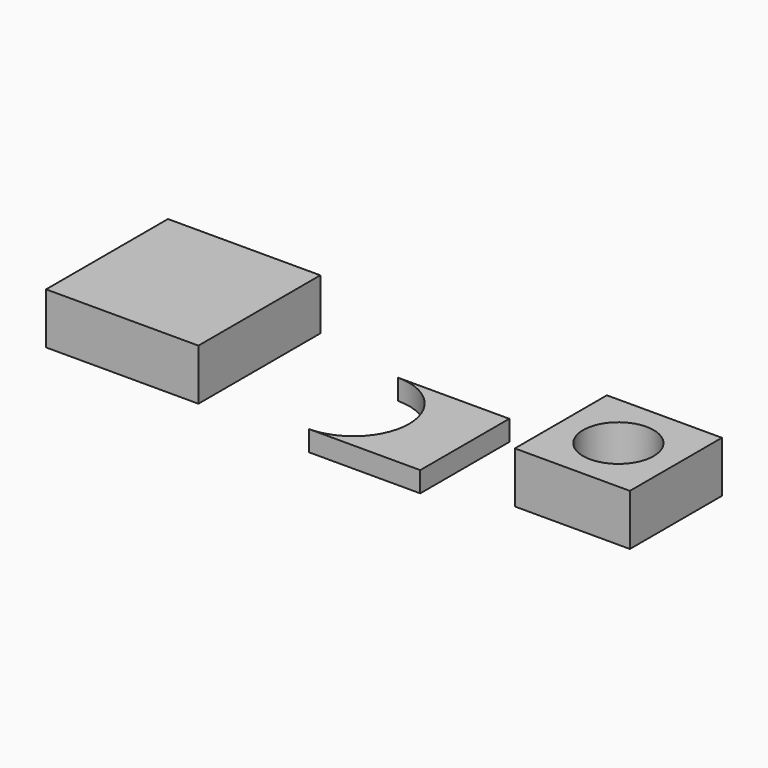
from build123d import *

# Parameters (mm, degrees)
F0_W     = 74.430912
F0_H     = 74.430912
F1_DEPTH = 25
F3_DEPTH = 10
F4_W     = 56.198493
F4_H     = 56.198492
F4_R     = 17.228945
F5_DEPTH = 25


with BuildPart() as f1:
    # F0 (on Top) → F1 (new body)
    with BuildSketch(Plane.XY):
        Rectangle(F0_W, F0_H)
    extrude(amount=F1_DEPTH)


with BuildPart() as f3:
    # F2 (on Top) → F3 (new body)
    with BuildSketch(Plane.XY):
        with BuildLine():
            Line((137.563335, 27.188392), (83.18655, 27.188392))
            ThreePointArc((83.18655, 27.188392), (110.374942, 0), (83.18655, -27.188392))
            Line((83.18655, -27.188392), (137.563335, -27.188392))
            Line((137.563335, -27.188392), (137.563335, 27.188392))
        make_face()
    extrude(amount=-F3_DEPTH)


with BuildPart() as f5:
    # F4 (on Top) → F5 (new body)
    with BuildSketch(Plane.XY):
        with Locations((212.62823, 0)):
            Rectangle(F4_W, F4_H)
        with Locations((212.62823, 0)):
            Circle(F4_R, mode=Mode.SUBTRACT)
    extrude(amount=F5_DEPTH)


solid = Compound([f1.part, f3.part, f5.part])
